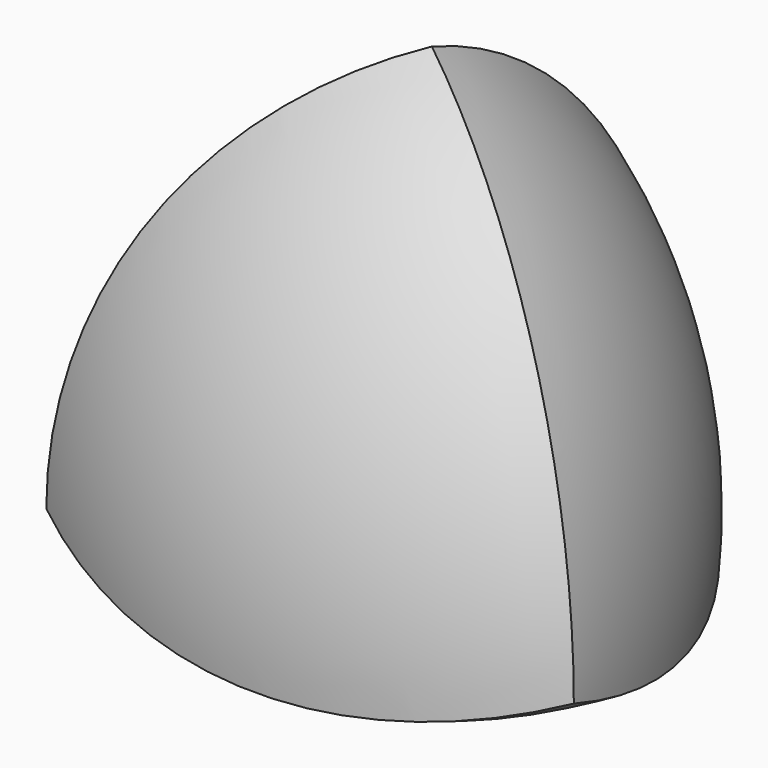
from build123d import *


with BuildPart() as f2:
    # F0 (on Top) → F2 (revolve)
    with BuildSketch(Plane.XY):
        with BuildLine():
            ThreePointArc((40, -46.1880215352), (54.6410161514, 8.4529946162), (0, 23.0940107676))
            Line((0, 23.0940107676), (20, -11.5470053838))
            Line((20, -11.5470053838), (40, -46.1880215352))
        make_face()
    revolve(axis=Axis((30, -28.8675134595, 0), (0.5, -0.8660254038, 0)))


with BuildPart() as f3:
    # F0 (on Top) → F3 (revolve)
    with BuildSketch(Plane.XY):
        with BuildLine():
            ThreePointArc((-60, -11.5470053838), (-20, -51.5470053838), (20, -11.5470053838))
            Line((20, -11.5470053838), (-20, -11.5470053838))
            Line((-20, -11.5470053838), (-60, -11.5470053838))
        make_face()
    revolve(axis=Axis((-40, -11.5470053838, 0), (-1, 0, 0)))


with BuildPart() as f4:
    # F0 (on Top) → F4 (revolve)
    with BuildSketch(Plane.XY):
        with BuildLine():
            Line((-20, -11.5470053838), (0, 23.0940107676))
            Line((0, 23.0940107676), (20, 57.735026919))
            ThreePointArc((20, 57.735026919), (-34.6410161514, 43.0940107676), (-20, -11.5470053838))
        make_face()
    revolve(axis=Axis((10, 40.4145188433, 0), (0.5, 0.8660254038, 0)))


with BuildPart() as f5:
    # F1 (on Right) → F5 (revolve)
    with BuildSketch(Plane.YZ):
        with BuildLine():
            Line((-23.0940107676, 65.3197264742), (0, 32.6598632371))
            Line((0, 32.6598632371), (23.0940107676, 0))
            ThreePointArc((23.0940107676, 0), (32.6598632371, 55.7538740047), (-23.0940107676, 65.3197264742))
        make_face()
    revolve(axis=Axis((0, -11.5470053838, 48.9897948557), (0, 0.5773502692, -0.8164965809)))


with BuildPart() as f2_1:
    add(f2.part)

    # F6: intersect F3, F4, F5
    add(f3.part, mode=Mode.INTERSECT)
    add(f4.part, mode=Mode.INTERSECT)
    add(f5.part, mode=Mode.INTERSECT)


solid = f2_1.part
